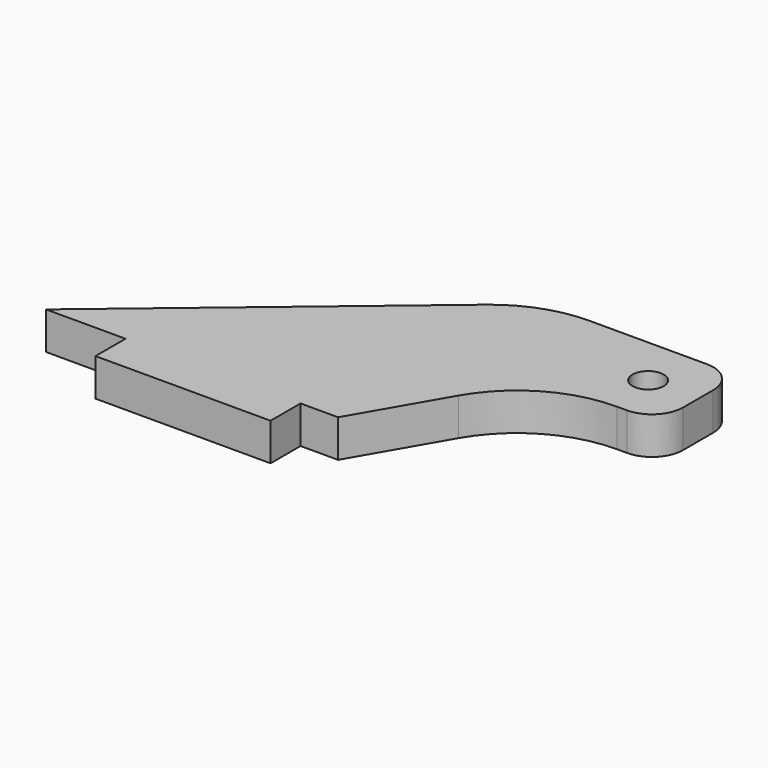
from build123d import *

# Parameters (mm, degrees)
F0_R     = 0.625
F1_DEPTH = 1.5


with BuildPart() as f1:
    # F0 (on Top) → F1 (new body)
    with BuildSketch(Plane.XY):
        with BuildLine():
            Line((-3.175, 0), (0, 0))
            Line((0, 0), (0, -1.5))
            Line((0, -1.5), (7, -1.5))
            Line((7, -1.5), (7, 0))
            Line((7, 0), (8.5, 0))
            Line((8.5, 0), (10.520726, 3.5))
            ThreePointArc((10.520726, 3.5), (12.350853, 5.330127), (14.850853, 6))
            Line((14.850853, 6), (15.25, 6))
            ThreePointArc((15.25, 6), (16.133883, 6.366117), (16.5, 7.25))
            Line((16.5, 7.25), (16.5, 8.75))
            ThreePointArc((16.5, 8.75), (16.133883, 9.633883), (15.25, 10))
            Line((15.25, 10), (10.562387, 10))
            ThreePointArc((10.562387, 10), (8.852286, 9.698463), (7.348449, 8.830222))
            Line((7.348449, 8.830222), (-3.175, 0))
        make_face()
        with Locations((14.5, 8)):
            Circle(F0_R, mode=Mode.SUBTRACT)
    extrude(amount=F1_DEPTH)


solid = f1.part
